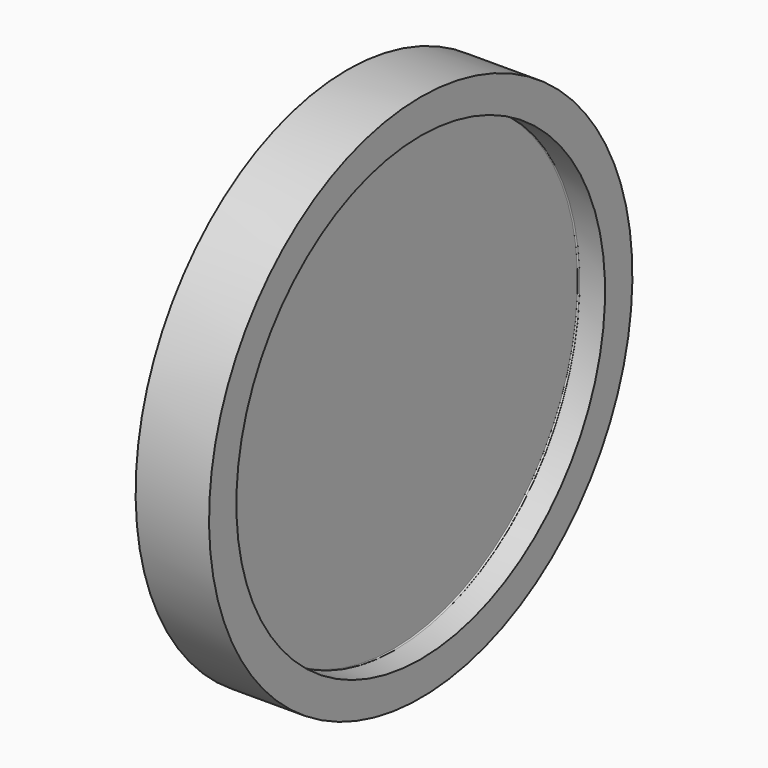
from build123d import *


with BuildPart() as f1:
    # F0 (on Front) → F1 (revolve)
    with BuildSketch(Plane.XZ):
        with BuildLine():
            Line((-19.466886, 0), (0, 0))
            Line((0, 0), (0, 97.4))
            ThreePointArc((0, 97.4), (0.279718, 97.781487), (0.727661, 97.629431))
            Line((0.727661, 97.629431), (0.818289, 97.5))
            Line((0.818289, 97.5), (11.6, 97.5))
            Line((11.6, 97.5), (11.6, 111.944042))
            Line((11.6, 111.944042), (-19.466886, 111.944042))
            Line((-19.466886, 111.944042), (-19.466886, 0))
        make_face()
    revolve(axis=Axis((-9.733443, 0, 0), (-1, 0, 0)))


solid = f1.part
